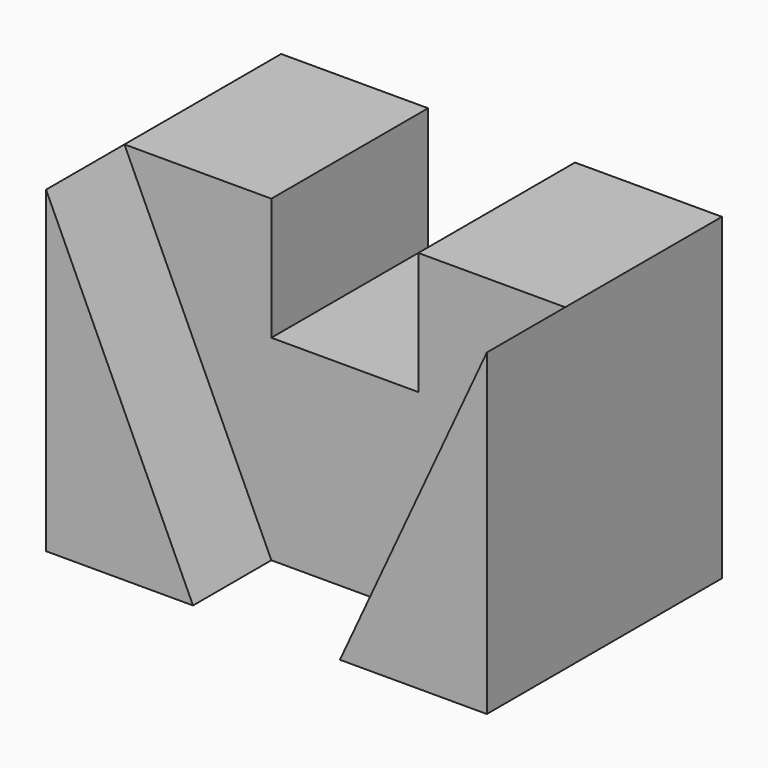
from build123d import *

# Parameters (mm, degrees)
F0_W     = 900
F0_H     = 650
F1_DEPTH = 400
F2_W     = 300
F2_H     = 250
F3_DEPTH = 400.001
F5_DEPTH = 200


with BuildPart() as f1:
    # F0 (on Front) → F1 (new body)
    with BuildSketch(Plane.XZ):
        Rectangle(F0_W, F0_H)
    extrude(amount=F1_DEPTH)

    # F2 (on face) → F3 (cut, through all)
    with BuildSketch(Plane.XZ.offset(400)):
        with Locations((0, 200)):
            Rectangle(F2_W, F2_H)
    extrude(amount=-F3_DEPTH, mode=Mode.SUBTRACT)

    # F4 (on face) → F5 (join)
    with BuildSketch(Plane.XZ.offset(400)):
        Polygon((-150, -325), (-450, 325), (-450, -325), align=None)
        Polygon((450, -325), (450, 325), (150, -325), align=None)
    extrude(amount=F5_DEPTH)


solid = f1.part
